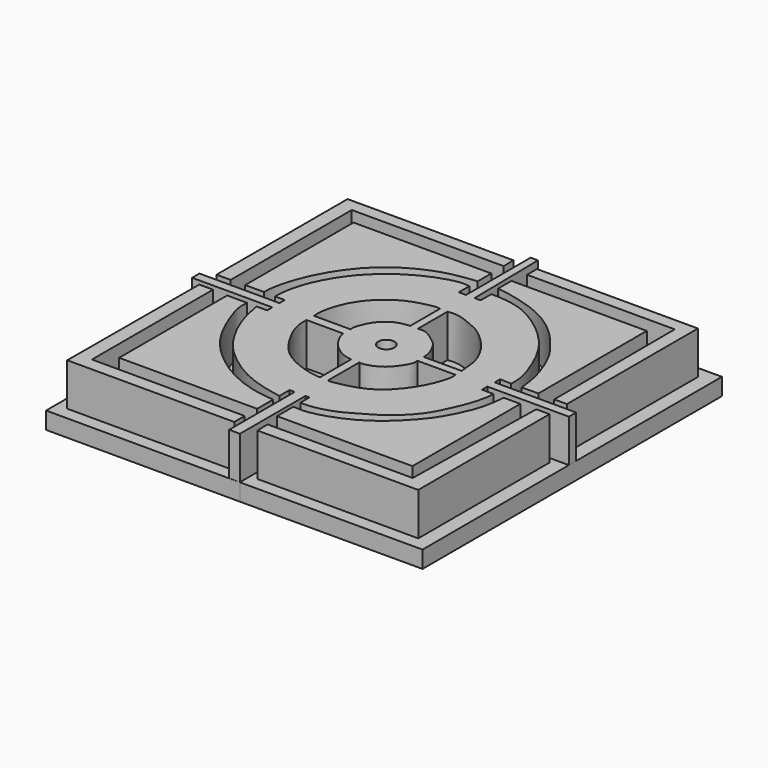
from build123d import *

# Parameters (mm, degrees)
F1_DEPTH = 5
F0_R     = 0.9585003227
F3_DEPTH = 2


with BuildPart() as f1:
    # F0 (on Top) → F1 (new body)
    with BuildSketch(Plane.XY):
        with BuildLine():
            add(Edge.make_bspline(
                [(16.4221860468, 62.1270276606), (15.8832675467, 62.1270276606), (15.3443490465, 62.1270276606), (14.8054305464, 62.1270276606)],
                knots=[0, 0, 0, 0, 1.6167555004, 1.6167555004, 1.6167555004, 1.6167555004], degree=3))
            add(Edge.make_bspline(
                [(14.8054305464, 62.1270276606), (14.7858333463, 55.7044409215), (14.7662361463, 49.2818541825), (14.7466389462, 42.8592674434)],
                knots=[0, 0, 0, 0, 19.2678499122, 19.2678499122, 19.2678499122, 19.2678499122], degree=3))
            add(Edge.make_bspline(
                [(14.7466389462, 42.8592674434), (21.2821072588, 42.8592674434), (27.7907808085, 42.8592674434), (34.3262491211, 42.8592674434)],
                knots=[0, 0, 0, 0, 19.5796101748, 19.5796101748, 19.5796101748, 19.5796101748], degree=3))
            add(Edge.make_bspline(
                [(34.3262491211, 42.8592674434), (34.3262491211, 43.3677670856), (34.3262491211, 43.8762667278), (34.3262491211, 44.3847663701)],
                knots=[0, 0, 0, 0, 1.5254989266, 1.5254989266, 1.5254989266, 1.5254989266], degree=3))
            add(Edge.make_bspline(
                [(34.3262491211, 44.3847663701), (28.3492965087, 44.3847663701), (22.3991386592, 44.3847663701), (16.4221860468, 44.3847663701)],
                knots=[0, 0, 0, 0, 17.9040630742, 17.9040630742, 17.9040630742, 17.9040630742], degree=3))
            add(Edge.make_bspline(
                [(16.4221860468, 44.3847663701), (16.4221860468, 50.2988534669), (16.4221860468, 56.2129405638), (16.4221860468, 62.1270276606)],
                knots=[0, 0, 0, 0, 17.7422612906, 17.7422612906, 17.7422612906, 17.7422612906], degree=3))
        make_face()
    extrude(amount=-F1_DEPTH)


with BuildPart() as f1b:
    # F0 (on Top) → F1, piece 2 (new body)
    with BuildSketch(Plane.XY):
        with BuildLine():
            add(Edge.make_bspline(
                [(54.01673913, 44.3847663701), (48.3487062156, 44.3847663701), (42.6806733012, 44.3847663701), (37.0126403868, 44.3847663701)],
                knots=[0, 0, 0, 0, 17.0040987432, 17.0040987432, 17.0040987432, 17.0040987432], degree=3))
            add(Edge.make_bspline(
                [(37.0126403868, 44.3847663701), (37.0219697555, 43.8762667278), (37.0312991242, 43.3677670856), (37.0406284928, 42.8592674434)],
                knots=[0, 0, 0, 0, 1.5257556519, 1.5257556519, 1.5257556519, 1.5257556519], degree=3))
            add(Edge.make_bspline(
                [(37.0406284928, 42.8592674434), (43.3241464198, 42.8592674434), (49.6076643467, 42.8592674434), (55.8911822736, 42.8592674434)],
                knots=[0, 0, 0, 0, 18.8505537808, 18.8505537808, 18.8505537808, 18.8505537808], degree=3))
            add(Edge.make_bspline(
                [(55.8911822736, 42.8592674434), (55.8911822736, 49.2690689862), (55.8911822736, 55.6788705289), (55.8911822736, 62.0886720717)],
                knots=[0, 0, 0, 0, 19.2294046283, 19.2294046283, 19.2294046283, 19.2294046283], degree=3))
            add(Edge.make_bspline(
                [(55.8911822736, 62.0886720717), (55.3724678854, 62.0886720717), (54.8537534972, 62.0886720717), (54.335039109, 62.0886720717)],
                knots=[0, 0, 0, 0, 1.5561431646, 1.5561431646, 1.5561431646, 1.5561431646], degree=3))
            add(Edge.make_bspline(
                [(54.335039109, 62.0886720717), (54.228939116, 56.1873701711), (54.122839123, 50.2860682706), (54.01673913, 44.3847663701)],
                knots=[0, 0, 0, 0, 17.7067668412, 17.7067668412, 17.7067668412, 17.7067668412], degree=3))
        make_face()
    extrude(amount=-F1_DEPTH)


with BuildPart() as f1c:
    # F0 (on Top) → F1, piece 3 (new body)
    with BuildSketch(Plane.XY):
        with BuildLine():
            add(Edge.make_bspline(
                [(54.335039109, 82.3838636279), (54.3570650948, 76.470060481), (54.3790910807, 70.556257334), (54.4011170665, 64.6424541871)],
                knots=[0, 0, 0, 0, 17.7415324942, 17.7415324942, 17.7415324942, 17.7415324942], degree=3))
            add(Edge.make_bspline(
                [(54.4011170665, 64.6424541871), (54.8964854744, 64.6476306849), (55.3918538822, 64.6528071827), (55.88722229, 64.6579836805)],
                knots=[0, 0, 0, 0, 1.4861863613, 1.4861863613, 1.4861863613, 1.4861863613], degree=3))
            add(Edge.make_bspline(
                [(55.88722229, 64.6579836805), (55.88722229, 71.0520827108), (55.88722229, 77.446181741), (55.88722229, 83.8402807713)],
                knots=[0, 0, 0, 0, 19.1822970907, 19.1822970907, 19.1822970907, 19.1822970907], degree=3))
            add(Edge.make_bspline(
                [(55.88722229, 83.8402807713), (49.5988047785, 83.8402807713), (43.310387267, 83.8402807713), (37.0219697555, 83.8402807713)],
                knots=[0, 0, 0, 0, 18.8652525345, 18.8652525345, 18.8652525345, 18.8652525345], degree=3))
            add(Edge.make_bspline(
                [(37.0219697555, 83.8402807713), (37.0219697555, 83.3548083901), (37.0219697555, 82.869336009), (37.0219697555, 82.3838636279)],
                knots=[0, 0, 0, 0, 1.4564171433, 1.4564171433, 1.4564171433, 1.4564171433], degree=3))
            add(Edge.make_bspline(
                [(37.0219697555, 82.3838636279), (42.7929928733, 82.3838636279), (48.5640159912, 82.3838636279), (54.335039109, 82.3838636279)],
                knots=[0, 0, 0, 0, 17.3130693535, 17.3130693535, 17.3130693535, 17.3130693535], degree=3))
        make_face()
    extrude(amount=-F1_DEPTH)


with BuildPart() as f1d:
    # F0 (on Top) → F1, piece 4 (new body)
    with BuildSketch(Plane.XY):
        with BuildLine():
            add(Edge.make_bspline(
                [(16.4753869176, 82.3838636279), (22.4143899977, 82.3838636279), (28.3533930779, 82.3838636279), (34.292396158, 82.3838636279)],
                knots=[0, 0, 0, 0, 17.8170092404, 17.8170092404, 17.8170092404, 17.8170092404], degree=3))
            add(Edge.make_bspline(
                [(34.292396158, 82.3838636279), (34.2783766488, 82.869336009), (34.2643571397, 83.3548083901), (34.2503376305, 83.8402807713)],
                knots=[0, 0, 0, 0, 1.4570243015, 1.4570243015, 1.4570243015, 1.4570243015], degree=3))
            add(Edge.make_bspline(
                [(34.2503376305, 83.8402807713), (27.7733197436, 83.8402807713), (21.2963018566, 83.8402807713), (14.8192839697, 83.8402807713)],
                knots=[0, 0, 0, 0, 19.4310536608, 19.4310536608, 19.4310536608, 19.4310536608], degree=3))
            add(Edge.make_bspline(
                [(14.8192839697, 83.8402807713), (14.8192839697, 77.4410052432), (14.8192839697, 71.0417297151), (14.8192839697, 64.6424541871)],
                knots=[0, 0, 0, 0, 19.1978265842, 19.1978265842, 19.1978265842, 19.1978265842], degree=3))
            add(Edge.make_bspline(
                [(14.8192839697, 64.6424541871), (15.3713182857, 64.6424541871), (15.9233526016, 64.6424541871), (16.4753869176, 64.6424541871)],
                knots=[0, 0, 0, 0, 1.6561029479, 1.6561029479, 1.6561029479, 1.6561029479], degree=3))
            add(Edge.make_bspline(
                [(16.4753869176, 64.6424541871), (16.4753869176, 70.556257334), (16.4753869176, 76.470060481), (16.4753869176, 82.3838636279)],
                knots=[0, 0, 0, 0, 17.7414094408, 17.7414094408, 17.7414094408, 17.7414094408], degree=3))
        make_face()
    extrude(amount=-F1_DEPTH)


with BuildPart() as f1e:
    # F0 (on Top) → F1, piece 5 (new body)
    with BuildSketch(Plane.XY):
        with BuildLine():
            add(Edge.make_bspline(
                [(34.3262491211, 48.5477223992), (34.3262491211, 47.7673628798), (34.3262491211, 46.9870033603), (34.3262491211, 46.2066438408)],
                knots=[2.4108831199, 2.4108831199, 2.4108831199, 2.4108831199, 4.7519616783, 4.7519616783, 4.7519616783, 4.7519616783], degree=3))
            add(Edge.make_bspline(
                [(20.4879599351, 62.0290902522), (20.469326627, 61.66728065), (20.4285012687, 60.8745600789), (20.8482317602, 59.3461325355), (22.256334925, 55.836630838), (24.3118460333, 53.1670467444), (26.7548642366, 51.1628554319), (28.9198826976, 49.8626542877), (31.7586852786, 48.7999758788), (33.4911071233, 48.6297719558), (34.3262491211, 48.5477223992)],
                knots=[0, 0, 0, 0, 0.0818720069, 0.1793806016, 0.3309250974, 0.4772051079, 0.614397108, 0.7392468588, 0.8742997267, 1, 1, 1, 1], degree=3))
            add(Edge.make_bspline(
                [(20.4879599351, 62.0290902522), (19.6947968911, 62.0290902522), (18.9461487655, 62.0290902522), (18.1529857215, 62.0290902522)],
                knots=[0, 0, 0, 0, 2.3349742136, 2.3349742136, 2.3349742136, 2.3349742136], degree=3))
            add(Edge.make_bspline(
                [(18.1529857215, 62.0290902522), (18.1529857215, 56.7574902045), (18.1529857215, 51.4782438884), (18.1529857215, 46.2066438408)],
                knots=[0, 0, 0, 0, 15.8224464113, 15.8224464113, 15.8224464113, 15.8224464113], degree=3))
            add(Edge.make_bspline(
                [(18.1529857215, 46.2066438408), (23.553005109, 46.2066438408), (28.9262297336, 46.2066438408), (34.3262491211, 46.2066438408)],
                knots=[0, 0, 0, 0, 16.1732633996, 16.1732633996, 16.1732633996, 16.1732633996], degree=3))
        make_face()
    extrude(amount=-F1_DEPTH)


with BuildPart() as f1f:
    # F0 (on Top) → F1, piece 6 (new body)
    with BuildSketch(Plane.XY):
        with BuildLine():
            add(Edge.make_bspline(
                [(34.925326705, 50.9586055191), (35.3469848633, 50.9586055191), (35.7686430216, 50.9586055191), (36.1903011799, 50.9586055191)],
                knots=[0.5990775839, 0.5990775839, 0.5990775839, 0.5990775839, 1.8640520588, 1.8640520588, 1.8640520588, 1.8640520588], degree=3))
            add(Edge.make_bspline(
                [(34.925326705, 41.3687191904), (34.925326705, 44.5656850934), (34.925326705, 47.7616396161), (34.925326705, 50.9586055191)],
                knots=[0, 0, 0, 0, 9.5898863287, 9.5898863287, 9.5898863287, 9.5898863287], degree=3))
            add(Edge.make_bspline(
                [(34.925326705, 41.3687191904), (35.3317720195, 41.3588061929), (35.7838558654, 41.3488931954), (36.1903011799, 41.3389801979)],
                knots=[0, 0, 0, 0, 1.2653240019, 1.2653240019, 1.2653240019, 1.2653240019], degree=3))
            add(Edge.make_bspline(
                [(36.1903011799, 41.3389801979), (36.1903011799, 44.5458590984), (36.1903011799, 47.7517266186), (36.1903011799, 50.9586055191)],
                knots=[0, 0, 0, 0, 9.6196253212, 9.6196253212, 9.6196253212, 9.6196253212], degree=3))
        make_face()
        with BuildLine():
            add(Edge.make_bspline(
                [(22.8586476296, 62.7715587616), (19.72528516, 62.7715587616), (16.5919226905, 62.7715587616), (13.4585602209, 62.7715587616)],
                knots=[0, 0, 0, 0, 9.4000874087, 9.4000874087, 9.4000874087, 9.4000874087], degree=3))
            add(Edge.make_bspline(
                [(22.8376183659, 63.8440474868), (22.8446281205, 63.4865512451), (22.851637875, 63.1290550033), (22.8586476296, 62.7715587616)],
                knots=[0, 0, 0, 0, 1.0726948753, 1.0726948753, 1.0726948753, 1.0726948753], degree=3))
            add(Edge.make_bspline(
                [(13.4585602209, 63.8440474868), (16.5849129359, 63.8440474868), (19.7112656509, 63.8440474868), (22.8376183659, 63.8440474868)],
                knots=[0, 0, 0, 0, 9.379058145, 9.379058145, 9.379058145, 9.379058145], degree=3))
            add(Edge.make_bspline(
                [(13.4585602209, 62.7715587616), (13.4585602209, 63.1290550033), (13.4585602209, 63.4865512451), (13.4585602209, 63.8440474868)],
                knots=[0, 0, 0, 0, 1.0724887252, 1.0724887252, 1.0724887252, 1.0724887252], degree=3))
        make_face()
        with BuildLine():
            add(Edge.make_bspline(
                [(35.1613126695, 85.2358043194), (35.1614827911, 82.0812707146), (35.1616529127, 78.9267371098), (35.1618230343, 75.772203505)],
                knots=[0, 0, 0, 0, 9.4636008281, 9.4636008281, 9.4636008281, 9.4636008281], degree=3))
            add(Edge.make_bspline(
                [(36.1621901393, 75.772203505), (35.8287344376, 75.772203505), (35.495278736, 75.772203505), (35.1618230343, 75.772203505)],
                knots=[0.7074847817, 0.7074847817, 0.7074847817, 0.7074847817, 1.7078518867, 1.7078518867, 1.7078518867, 1.7078518867], degree=3))
            add(Edge.make_bspline(
                [(36.1621901393, 75.772203505), (36.1133764187, 78.9267371098), (36.0645626982, 82.0812707146), (36.0157489777, 85.2358043194)],
                knots=[0, 0, 0, 0, 9.4647337726, 9.4647337726, 9.4647337726, 9.4647337726], degree=3))
            add(Edge.make_bspline(
                [(36.0157489777, 85.2358043194), (35.7309368749, 85.2358043194), (35.4461247722, 85.2358043194), (35.1613126695, 85.2358043194)],
                knots=[0, 0, 0, 0, 0.8544363081, 0.8544363081, 0.8544363081, 0.8544363081], degree=3))
        make_face()
        with BuildLine():
            add(Edge.make_bspline(
                [(48.0358153582, 62.8075450659), (48.0358153582, 63.1565873665), (48.0358153582, 63.5197117493), (48.0358153582, 63.8690404594)],
                knots=[0.8139980546, 0.8139980546, 0.8139980546, 0.8139980546, 1.8351889303, 1.8351889303, 1.8351889303, 1.8351889303], degree=3))
            add(Edge.make_bspline(
                [(57.5837679207, 62.8075450659), (54.4011170665, 62.8075450659), (51.2184662124, 62.8075450659), (48.0358153582, 62.8075450659)],
                knots=[0, 0, 0, 0, 9.5479525626, 9.5479525626, 9.5479525626, 9.5479525626], degree=3))
            add(Edge.make_bspline(
                [(57.5837679207, 63.8690404594), (57.5837679207, 63.5152086615), (57.5837679207, 63.1613768637), (57.5837679207, 62.8075450659)],
                knots=[0, 0, 0, 0, 1.0614953935, 1.0614953935, 1.0614953935, 1.0614953935], degree=3))
            add(Edge.make_bspline(
                [(48.0358153582, 63.8690404594), (51.2184662124, 63.8690404594), (54.4011170665, 63.8690404594), (57.5837679207, 63.8690404594)],
                knots=[0, 0, 0, 0, 9.5479525626, 9.5479525626, 9.5479525626, 9.5479525626], degree=3))
        make_face()
        with BuildLine():
            add(Edge.make_bspline(
                [(34.3262491211, 50.9586055191), (34.3262491211, 50.459558789), (34.3262491211, 49.960512059), (34.3262491211, 49.4614653289)],
                knots=[0, 0, 0, 0, 1.4971401902, 1.4971401902, 1.4971401902, 1.4971401902], degree=3))
            add(Edge.make_bspline(
                [(34.3262491211, 50.9586055191), (34.525941649, 50.9586055191), (34.725634177, 50.9586055191), (34.925326705, 50.9586055191)],
                knots=[0, 0, 0, 0, 0.5990775839, 0.5990775839, 0.5990775839, 0.5990775839], degree=3))
            add(Edge.make_bspline(
                [(34.925326705, 50.9586055191), (35.3469848633, 50.9586055191), (35.7686430216, 50.9586055191), (36.1903011799, 50.9586055191)],
                knots=[0.5990775839, 0.5990775839, 0.5990775839, 0.5990775839, 1.8640520588, 1.8640520588, 1.8640520588, 1.8640520588], degree=3))
            add(Edge.make_bspline(
                [(36.1903011799, 50.9586055191), (36.3484438951, 50.9586055191), (36.5065866102, 50.9586055191), (36.6647293254, 50.9586055191)],
                knots=[1.8640520588, 1.8640520588, 1.8640520588, 1.8640520588, 2.3384802043, 2.3384802043, 2.3384802043, 2.3384802043], degree=3))
            add(Edge.make_bspline(
                [(36.6647293254, 50.9586055191), (36.6647293254, 50.5102587482), (36.6647293254, 50.0619119774), (36.6647293254, 49.6135652065)],
                knots=[0, 0, 0, 0, 1.3450403126, 1.3450403126, 1.3450403126, 1.3450403126], degree=3))
            add(Edge.make_bspline(
                [(49.3640676141, 62.0138347149), (49.3773822056, 61.814017967), (49.4091497111, 61.4383885155), (48.9438100815, 59.271947412), (47.9324026139, 57.0865536852), (47.0309666777, 55.1649379727), (44.7427529489, 52.645989334), (41.9050778485, 51.1477204747), (40.6481850607, 50.3668195918), (38.3649020674, 49.6116054769), (37.2028230824, 49.6135528129), (36.6647293254, 49.6135652065)],
                knots=[0, 0, 0, 0, 0.0578383768, 0.1703165687, 0.2926937648, 0.404948092, 0.5480098965, 0.6856074121, 0.781050117, 0.8986984495, 1, 1, 1, 1], degree=3))
            add(Edge.make_bspline(
                [(49.3640676141, 62.0138347149), (48.9213168621, 62.0138347149), (48.4785661101, 62.0138347149), (48.0358153582, 62.0138347149)],
                knots=[0, 0, 0, 0, 1.3282522559, 1.3282522559, 1.3282522559, 1.3282522559], degree=3))
            add(Edge.make_bspline(
                [(48.0358153582, 62.0138347149), (48.0358153582, 62.2600446364), (48.0358153582, 62.5293211212), (48.0358153582, 62.8075450659)],
                knots=[0, 0, 0, 0, 0.8139980546, 0.8139980546, 0.8139980546, 0.8139980546], degree=3))
            add(Edge.make_bspline(
                [(48.0358153582, 62.8075450659), (48.0358153582, 63.1565873665), (48.0358153582, 63.5197117493), (48.0358153582, 63.8690404594)],
                knots=[0.8139980546, 0.8139980546, 0.8139980546, 0.8139980546, 1.8351889303, 1.8351889303, 1.8351889303, 1.8351889303], degree=3))
            add(Edge.make_bspline(
                [(48.0358153582, 63.8690404594), (48.0358153582, 64.1510816237), (48.0358153582, 64.4241298972), (48.0358153582, 64.673513174)],
                knots=[1.8351889303, 1.8351889303, 1.8351889303, 1.8351889303, 2.6596784591, 2.6596784591, 2.6596784591, 2.6596784591], degree=3))
            add(Edge.make_bspline(
                [(48.0358153582, 64.673513174), (48.4824304779, 64.6579836806), (48.9290455977, 64.6424541871), (49.3756607175, 64.6269246936)],
                knots=[0, 0, 0, 0, 1.3406550911, 1.3406550911, 1.3406550911, 1.3406550911], degree=3))
            add(Edge.make_bspline(
                [(36.869674921, 77.3325264454), (37.0804886913, 77.3451733979), (37.6488734826, 77.350612493), (39.857399112, 77.1542788889), (42.0612404884, 76.2032987688), (44.3444346233, 74.6008118443), (46.336657962, 72.6531262304), (47.7950787284, 70.3663611306), (48.7349733481, 68.1317289371), (49.4042837293, 66.0976157093), (49.3845737131, 65.084903481), (49.3756607175, 64.6269246936)],
                knots=[0, 0, 0, 0, 0.0654086489, 0.1773681339, 0.2974935373, 0.4246372311, 0.5524322165, 0.6778681778, 0.7977350761, 0.9086148136, 1, 1, 1, 1], degree=3))
            add(Edge.make_bspline(
                [(36.869674921, 77.3325264454), (36.869674921, 76.768271625), (36.869674921, 76.3364583254), (36.869674921, 75.772203505)],
                knots=[0, 0, 0, 0, 1.5603229403, 1.5603229403, 1.5603229403, 1.5603229403], degree=3))
            add(Edge.make_bspline(
                [(36.869674921, 75.772203505), (36.6338466605, 75.772203505), (36.3980183999, 75.772203505), (36.1621901393, 75.772203505)],
                knots=[0, 0, 0, 0, 0.7074847817, 0.7074847817, 0.7074847817, 0.7074847817], degree=3))
            add(Edge.make_bspline(
                [(36.1621901393, 75.772203505), (35.8287344376, 75.772203505), (35.495278736, 75.772203505), (35.1618230343, 75.772203505)],
                knots=[0.7074847817, 0.7074847817, 0.7074847817, 0.7074847817, 1.7078518867, 1.7078518867, 1.7078518867, 1.7078518867], degree=3))
            add(Edge.make_bspline(
                [(35.1618230343, 75.772203505), (34.8771810532, 75.772203505), (34.592539072, 75.772203505), (34.3078970909, 75.772203505)],
                knots=[1.7078518867, 1.7078518867, 1.7078518867, 1.7078518867, 2.5617778301, 2.5617778301, 2.5617778301, 2.5617778301], degree=3))
            add(Edge.make_bspline(
                [(34.3078970909, 75.772203505), (34.3078970909, 76.3364583254), (34.3078970909, 76.768271625), (34.3078970909, 77.3325264454)],
                knots=[0, 0, 0, 0, 1.5603229403, 1.5603229403, 1.5603229403, 1.5603229403], degree=3))
            add(Edge.make_bspline(
                [(34.3078970909, 77.3325264454), (33.8691194926, 77.382322327), (32.8361100051, 77.4689395129), (29.8155548786, 76.4208925059), (27.0907434314, 74.7925930891), (24.3723664588, 72.2446092205), (22.390718826, 68.7672813299), (21.7368975728, 66.1289348712), (21.7024073564, 65.0743365342), (21.6877348721, 64.6269246936)],
                knots=[0, 0, 0, 0, 0.1030970948, 0.2558297354, 0.4125735671, 0.5797448281, 0.7543120874, 0.896055567, 1, 1, 1, 1], degree=3))
            add(Edge.make_bspline(
                [(21.6877348721, 64.6269246936), (22.07102937, 64.6269246936), (22.454323868, 64.6269246936), (22.8376183659, 64.6269246936)],
                knots=[0, 0, 0, 0, 1.1498834938, 1.1498834938, 1.1498834938, 1.1498834938], degree=3))
            add(Edge.make_bspline(
                [(22.8376183659, 64.6269246936), (22.8376183659, 64.3659656247), (22.8376183659, 64.1050065557), (22.8376183659, 63.8440474868)],
                knots=[0, 0, 0, 0, 0.7828772068, 0.7828772068, 0.7828772068, 0.7828772068], degree=3))
            add(Edge.make_bspline(
                [(22.8376183659, 63.8440474868), (22.8446281205, 63.4865512451), (22.851637875, 63.1290550033), (22.8586476296, 62.7715587616)],
                knots=[0, 0, 0, 0, 1.0726948753, 1.0726948753, 1.0726948753, 1.0726948753], degree=3))
            add(Edge.make_bspline(
                [(22.8586476296, 62.7715587616), (22.8586476296, 62.5182241201), (22.8586476296, 62.2638780983), (22.8586476296, 62.0105434568)],
                knots=[0, 0, 0, 0, 0.7610153048, 0.7610153048, 0.7610153048, 0.7610153048], degree=3))
            add(Edge.make_bspline(
                [(22.8586476296, 62.0105434568), (22.4407364925, 62.0067709795), (22.0190702627, 62.0035008976), (21.6011591256, 61.9997284202)],
                knots=[0, 0, 0, 0, 1.2575350106, 1.2575350106, 1.2575350106, 1.2575350106], degree=3))
            add(Edge.make_bspline(
                [(34.3262491211, 49.4614653289), (33.9344259451, 49.5288718558), (33.0847133309, 49.6830987217), (30.9001349791, 50.2401010262), (28.7033992921, 51.2397164874), (26.7016619372, 52.638600452), (24.7154537292, 54.4489596313), (23.2796714182, 56.7950605477), (22.6355841384, 58.20541296), (22.0311295687, 59.8271132382), (21.6139248737, 61.9656952384), (21.6011591256, 61.9997284202)],
                knots=[0, 0, 0, 0, 0.0842967843, 0.1974396023, 0.3162116352, 0.434205334, 0.5597015038, 0.6845818035, 0.7771346478, 0.8848198284, 0.9909857944, 0.9909857944, 0.9909857944, 0.9909857944], degree=3))
        make_face()
        with BuildLine():
            add(Edge.make_bspline(
                [(34.925326705, 52.603892982), (35.2390151885, 52.603892982), (35.5715474405, 52.603892982), (35.885235924, 52.603892982)],
                knots=[0, 0, 0, 0, 0.959909219, 0.959909219, 0.959909219, 0.959909219], degree=3))
            add(Edge.make_bspline(
                [(34.925326705, 52.603892982), (34.925326705, 53.2904155552), (34.925326705, 53.9769381285), (34.925326705, 54.6634607017)],
                knots=[0, 0, 0, 0, 2.0595677197, 2.0595677197, 2.0595677197, 2.0595677197], degree=3))
            add(Edge.make_bspline(
                [(34.925326705, 54.6634607017), (34.5520501631, 54.6952935671), (33.7172065203, 54.7664886795), (31.9804002625, 55.3030674479), (30.0705290496, 56.2301092288), (28.5641292527, 57.8364280556), (27.3075207341, 60.1029494675), (27.0856800092, 60.9230534601), (26.8244947416, 61.967845736), (26.8571194319, 62.5144343762), (26.8724666288, 62.7715587616)],
                knots=[0, 0, 0, 0, 0.1107153253, 0.2476179858, 0.3950336198, 0.5489949429, 0.7104537414, 0.805516836, 0.9085118857, 1, 1, 1, 1], degree=3))
            add(Edge.make_bspline(
                [(26.8724666288, 62.7715587616), (26.1553043707, 62.7715587616), (25.4381421126, 62.7715587616), (24.7209798545, 62.7715587616)],
                knots=[4.3029735486, 4.3029735486, 4.3029735486, 4.3029735486, 6.4544603229, 6.4544603229, 6.4544603229, 6.4544603229], degree=3))
            add(Edge.make_bspline(
                [(24.7209798545, 62.7715587616), (24.7209798545, 63.1290550033), (24.7209798545, 63.4865512451), (24.7209798545, 63.8440474868)],
                knots=[0, 0, 0, 0, 1.0724887252, 1.0724887252, 1.0724887252, 1.0724887252], degree=3))
            add(Edge.make_bspline(
                [(24.7209798545, 63.8440474868), (25.4381421126, 63.8440474868), (26.1553043707, 63.8440474868), (26.8724666288, 63.8440474868)],
                knots=[0, 0, 0, 0, 2.1514867743, 2.1514867743, 2.1514867743, 2.1514867743], degree=3))
            add(Edge.make_bspline(
                [(26.8724666288, 63.8440474868), (26.8502700716, 64.1404986417), (26.7922520247, 64.9153718291), (27.4486997716, 67.5440683368), (29.147490191, 69.8667425581), (31.2582107241, 71.3703733951), (33.1044036124, 71.9525541956), (34.5497303016, 72.2525136498), (34.8855166224, 72.1679619697), (35.0043922663, 72.1380288402)],
                knots=[0, 0, 0, 0, 0.1094362577, 0.2860478714, 0.4730694586, 0.6465391907, 0.8003079697, 0.9293046881, 1, 1, 1, 1], degree=3))
            add(Edge.make_bspline(
                [(35.0043922663, 72.1380288402), (35.0043922663, 72.8434220403), (35.0043922663, 73.5415014905), (35.0043922663, 74.2186307907)],
                knots=[4.3438428485, 4.3438428485, 4.3438428485, 4.3438428485, 6.4396038651, 6.4396038651, 6.4396038651, 6.4396038651], degree=3))
            add(Edge.make_bspline(
                [(35.0043922663, 74.2186307907), (35.3156489631, 74.2186307907), (35.59347863, 74.2186307907), (35.9047353268, 74.2186307907)],
                knots=[0, 0, 0, 0, 0.9003430605, 0.9003430605, 0.9003430605, 0.9003430605], degree=3))
            add(Edge.make_bspline(
                [(35.9047353268, 74.2186307907), (35.9047353268, 73.5250968072), (35.9047353268, 72.8315628237), (35.9047353268, 72.1380288402)],
                knots=[0, 0, 0, 0, 2.0806019505, 2.0806019505, 2.0806019505, 2.0806019505], degree=3))
            add(Edge.make_bspline(
                [(35.9047353268, 72.1380288402), (36.3083677559, 72.1780247752), (37.1990886343, 72.2662863017), (38.9674673916, 71.5225472984), (40.3384382259, 70.949329421), (42.0188782779, 69.445126892), (43.1089767586, 68.0745167478), (44.0926668028, 66.124623602), (44.182180853, 64.3519191305), (44.2307719308, 63.9163800801), (44.2483052611, 63.7592226267)],
                knots=[0, 0, 0, 0, 0.1117805014, 0.2466730105, 0.3698386049, 0.5159191875, 0.6490104649, 0.7958635561, 0.9263405574, 1, 1, 1, 1], degree=3))
            add(Edge.make_bspline(
                [(44.2483052611, 63.7592226267), (44.9161032836, 63.7592226267), (45.583901306, 63.7592226267), (46.2516993284, 63.7592226267)],
                knots=[4.4204220176, 4.4204220176, 4.4204220176, 4.4204220176, 6.4238160849, 6.4238160849, 6.4238160849, 6.4238160849], degree=3))
            add(Edge.make_bspline(
                [(46.2516993284, 63.7592226267), (46.2516993284, 63.4419967731), (46.2516993284, 63.1247709195), (46.2516993284, 62.8075450659)],
                knots=[0, 0, 0, 0, 0.9516775608, 0.9516775608, 0.9516775608, 0.9516775608], degree=3))
            add(Edge.make_bspline(
                [(46.2516993284, 62.8075450659), (45.6037720044, 62.8075450659), (44.9558446805, 62.8075450659), (44.3079173565, 62.8075450659)],
                knots=[0, 0, 0, 0, 1.9437819719, 1.9437819719, 1.9437819719, 1.9437819719], degree=3))
            add(Edge.make_bspline(
                [(44.3079173565, 62.8075450659), (44.328349444, 62.5890636417), (44.3809390826, 62.026269298), (43.807905346, 60.226780141), (42.9511807492, 58.6122776254), (41.5543149677, 56.7614201456), (39.3589301048, 55.1802339939), (36.5229905825, 54.635930748), (36.017684726, 54.5841289326), (35.8823163466, 54.6613492488)],
                knots=[0, 0, 0, 0, 0.0935603705, 0.2407455732, 0.3904356665, 0.5534576512, 0.7361575178, 0.9185772492, 0.9992724377, 0.9992724377, 0.9992724377, 0.9992724377], degree=3))
            add(Edge.make_bspline(
                [(35.885235924, 52.603892982), (35.8831278746, 53.2640846123), (35.8823712899, 53.9547946943), (35.8823163547, 54.6613492559)],
                knots=[0, 0, 0, 0, 2.1233852855, 2.1233852855, 2.1233852855, 2.1233852855], degree=3))
        make_face(mode=Mode.SUBTRACT)
        with BuildLine():
            add(Edge.make_bspline(
                [(34.925326705, 52.603892982), (34.925326705, 53.2904155552), (34.925326705, 53.9769381285), (34.925326705, 54.6634607017)],
                knots=[0, 0, 0, 0, 2.0595677197, 2.0595677197, 2.0595677197, 2.0595677197], degree=3))
            add(Edge.make_bspline(
                [(34.925326705, 52.603892982), (35.2390151885, 52.603892982), (35.5715474405, 52.603892982), (35.885235924, 52.603892982)],
                knots=[0, 0, 0, 0, 0.959909219, 0.959909219, 0.959909219, 0.959909219], degree=3))
            add(Edge.make_bspline(
                [(35.885235924, 52.603892982), (35.8831278746, 53.2640846123), (35.8823712899, 53.9547946943), (35.8823163547, 54.6613492559)],
                knots=[0, 0, 0, 0, 2.1233852855, 2.1233852855, 2.1233852855, 2.1233852855], degree=3))
            add(Edge.make_bspline(
                [(35.8823163547, 54.6613492559), (35.8821999112, 56.158998596), (35.885235924, 57.727835945), (35.885235924, 59.2281147838)],
                knots=[2.1233852855, 2.1233852855, 2.1233852855, 2.1233852855, 6.6242218018, 6.6242218018, 6.6242218018, 6.6242218018], degree=3))
            add(Edge.make_bspline(
                [(39.8278832436, 62.8075450659), (39.8536837045, 62.6333190713), (39.9184705252, 62.1945925309), (39.2122234259, 61.0354365314), (38.2919228247, 59.826965509), (36.4835826465, 59.1206713976), (36.0349707855, 59.2003058287), (35.885235924, 59.2281147838)],
                knots=[0, 0, 0, 0, 0.1430627255, 0.3581374053, 0.6004084066, 0.8585197521, 1, 1, 1, 1], degree=3))
            add(Edge.make_bspline(
                [(44.3079173565, 62.8075450659), (42.8145726522, 62.8075450659), (41.3212279479, 62.8075450659), (39.8278832436, 62.8075450659)],
                knots=[1.9437819719, 1.9437819719, 1.9437819719, 1.9437819719, 6.4238160849, 6.4238160849, 6.4238160849, 6.4238160849], degree=3))
            add(Edge.make_bspline(
                [(46.2516993284, 62.8075450659), (45.6037720044, 62.8075450659), (44.9558446805, 62.8075450659), (44.3079173565, 62.8075450659)],
                knots=[0, 0, 0, 0, 1.9437819719, 1.9437819719, 1.9437819719, 1.9437819719], degree=3))
            add(Edge.make_bspline(
                [(46.2516993284, 63.7592226267), (46.2516993284, 63.4419967731), (46.2516993284, 63.1247709195), (46.2516993284, 62.8075450659)],
                knots=[0, 0, 0, 0, 0.9516775608, 0.9516775608, 0.9516775608, 0.9516775608], degree=3))
            add(Edge.make_bspline(
                [(44.2483052611, 63.7592226267), (44.9161032836, 63.7592226267), (45.583901306, 63.7592226267), (46.2516993284, 63.7592226267)],
                knots=[4.4204220176, 4.4204220176, 4.4204220176, 4.4204220176, 6.4238160849, 6.4238160849, 6.4238160849, 6.4238160849], degree=3))
            add(Edge.make_bspline(
                [(39.8278832436, 63.7592226267), (41.3013572494, 63.7592226267), (42.7748312553, 63.7592226267), (44.2483052611, 63.7592226267)],
                knots=[0, 0, 0, 0, 4.4204220176, 4.4204220176, 4.4204220176, 4.4204220176], degree=3))
            add(Edge.make_bspline(
                [(35.9047353268, 67.7790269256), (36.1474305391, 67.7797719836), (36.7958162122, 67.9568886539), (38.082399637, 66.9583585695), (39.0023312078, 66.3127904417), (39.7544206639, 64.7005360058), (39.8059883065, 64.040791736), (39.8278832436, 63.7592226267)],
                knots=[0, 0, 0, 0, 0.1654637865, 0.3895332789, 0.5884914434, 0.8245108845, 1, 1, 1, 1], degree=3))
            add(Edge.make_bspline(
                [(35.9047353268, 72.1380288402), (35.9047353268, 70.685028202), (35.9047353268, 69.2320275638), (35.9047353268, 67.7790269256)],
                knots=[2.0806019505, 2.0806019505, 2.0806019505, 2.0806019505, 6.4396038651, 6.4396038651, 6.4396038651, 6.4396038651], degree=3))
            add(Edge.make_bspline(
                [(35.9047353268, 74.2186307907), (35.9047353268, 73.5250968072), (35.9047353268, 72.8315628237), (35.9047353268, 72.1380288402)],
                knots=[0, 0, 0, 0, 2.0806019505, 2.0806019505, 2.0806019505, 2.0806019505], degree=3))
            add(Edge.make_bspline(
                [(35.0043922663, 74.2186307907), (35.3156489631, 74.2186307907), (35.59347863, 74.2186307907), (35.9047353268, 74.2186307907)],
                knots=[0, 0, 0, 0, 0.9003430605, 0.9003430605, 0.9003430605, 0.9003430605], degree=3))
            add(Edge.make_bspline(
                [(35.0043922663, 72.1380288402), (35.0043922663, 72.8434220403), (35.0043922663, 73.5415014905), (35.0043922663, 74.2186307907)],
                knots=[4.3438428485, 4.3438428485, 4.3438428485, 4.3438428485, 6.4396038651, 6.4396038651, 6.4396038651, 6.4396038651], degree=3))
            add(Edge.make_bspline(
                [(35.0043922663, 67.7790269256), (35.0043922663, 69.1824995758), (35.0043922663, 70.6759741579), (35.0043922663, 72.1380288402)],
                knots=[0, 0, 0, 0, 4.3438428485, 4.3438428485, 4.3438428485, 4.3438428485], degree=3))
            add(Edge.make_bspline(
                [(31.1754401773, 63.8440474868), (31.1539248492, 64.0214682428), (31.1016335951, 64.4526749522), (31.5967512076, 65.6133203683), (32.0132808594, 66.3527385219), (33.1451102029, 67.5120068569), (34.6863893876, 67.7984141405), (34.9307684795, 67.783515439), (35.0043922663, 67.7790269256)],
                knots=[0, 0, 0, 0, 0.1316739625, 0.3200228506, 0.4816404555, 0.6988770928, 0.9092810741, 1, 1, 1, 1], degree=3))
            add(Edge.make_bspline(
                [(26.8724666288, 63.8440474868), (28.3067911449, 63.8440474868), (29.7411156611, 63.8440474868), (31.1754401773, 63.8440474868)],
                knots=[2.1514867743, 2.1514867743, 2.1514867743, 2.1514867743, 6.4544603229, 6.4544603229, 6.4544603229, 6.4544603229], degree=3))
            add(Edge.make_bspline(
                [(24.7209798545, 63.8440474868), (25.4381421126, 63.8440474868), (26.1553043707, 63.8440474868), (26.8724666288, 63.8440474868)],
                knots=[0, 0, 0, 0, 2.1514867743, 2.1514867743, 2.1514867743, 2.1514867743], degree=3))
            add(Edge.make_bspline(
                [(24.7209798545, 62.7715587616), (24.7209798545, 63.1290550033), (24.7209798545, 63.4865512451), (24.7209798545, 63.8440474868)],
                knots=[0, 0, 0, 0, 1.0724887252, 1.0724887252, 1.0724887252, 1.0724887252], degree=3))
            add(Edge.make_bspline(
                [(26.8724666288, 62.7715587616), (26.1553043707, 62.7715587616), (25.4381421126, 62.7715587616), (24.7209798545, 62.7715587616)],
                knots=[4.3029735486, 4.3029735486, 4.3029735486, 4.3029735486, 6.4544603229, 6.4544603229, 6.4544603229, 6.4544603229], degree=3))
            add(Edge.make_bspline(
                [(31.1754401773, 62.7715587616), (29.7411156611, 62.7715587616), (28.3067911449, 62.7715587616), (26.8724666288, 62.7715587616)],
                knots=[0, 0, 0, 0, 4.3029735486, 4.3029735486, 4.3029735486, 4.3029735486], degree=3))
            add(Edge.make_bspline(
                [(34.925326705, 59.2281147838), (34.6226004289, 59.2681864199), (34.0098931928, 59.3620435312), (32.9011140481, 59.9833426671), (31.9416022595, 60.9109639927), (31.2357520457, 62.216615373), (31.1921443667, 62.6193803649), (31.1754401773, 62.7715587616)],
                knots=[0, 0, 0, 0, 0.1846877379, 0.3988048457, 0.6276639153, 0.8599886764, 1, 1, 1, 1], degree=3))
            add(Edge.make_bspline(
                [(34.925326705, 54.6634607017), (34.925326705, 56.1850120624), (34.925326705, 57.7065634231), (34.925326705, 59.2281147838)],
                knots=[2.0595677197, 2.0595677197, 2.0595677197, 2.0595677197, 6.6242218018, 6.6242218018, 6.6242218018, 6.6242218018], degree=3))
        make_face()
        with Locations((35.6115102768, 63.5251104832)):
            Circle(F0_R, mode=Mode.SUBTRACT)
    extrude(amount=-F1_DEPTH)


with BuildPart() as f1g:
    # F0 (on Top) → F1, piece 7 (new body)
    with BuildSketch(Plane.XY):
        with BuildLine():
            add(Edge.make_bspline(
                [(36.6647293254, 48.5900547715), (37.1758728261, 48.5540505834), (38.3605367686, 48.4705409758), (41.2592017952, 49.3130837488), (44.6685121563, 51.0926894983), (47.6121885861, 54.2248488187), (48.8379969708, 56.1120388529), (50.2796591778, 59.1404387033), (50.4956884176, 61.0012297667), (50.5860532031, 62.0105434568)],
                knots=[0, 0, 0, 0, 0.1058273294, 0.2476725875, 0.4135645161, 0.5832226637, 0.7093056426, 0.8577652605, 0.9998455806, 0.9998455806, 0.9998455806, 0.9998455806], degree=3))
            add(Edge.make_bspline(
                [(36.6647293254, 48.5900547715), (36.6647293254, 47.7955844613), (36.6647293254, 47.001114151), (36.6647293254, 46.2066438408)],
                knots=[2.3685507476, 2.3685507476, 2.3685507476, 2.3685507476, 4.7519616783, 4.7519616783, 4.7519616783, 4.7519616783], degree=3))
            add(Edge.make_bspline(
                [(36.6647293254, 46.2066438408), (41.9505114441, 46.2066438408), (47.2448796724, 46.2066438408), (52.530661791, 46.2066438408)],
                knots=[0, 0, 0, 0, 15.8659324656, 15.8659324656, 15.8659324656, 15.8659324656], degree=3))
            add(Edge.make_bspline(
                [(52.530661791, 46.2066438408), (52.530661791, 51.4746103795), (52.530661791, 56.7425769182), (52.530661791, 62.0105434568)],
                knots=[0, 0, 0, 0, 15.803899616, 15.803899616, 15.803899616, 15.803899616], degree=3))
            add(Edge.make_bspline(
                [(52.530661791, 62.0105434568), (51.8768814433, 62.0096531905), (51.235938926, 62.0064264969), (50.5860532031, 62.0105434568)],
                knots=[0, 0, 0, 0, 1.9446085879, 1.9446085879, 1.9446085879, 1.9446085879], degree=3))
        make_face()
    extrude(amount=-F1_DEPTH)


with BuildPart() as f1h:
    # F0 (on Top) → F1, piece 8 (new body)
    with BuildSketch(Plane.XY):
        with BuildLine():
            add(Edge.make_bspline(
                [(50.586347787, 64.6269246936), (50.4902843865, 65.4274965576), (50.3599208327, 67.1057626927), (48.9639078696, 70.7124599907), (48.1054743858, 71.9302188038), (47.5525483489, 72.5759938359)],
                knots=[0, 0, 0, 0, 0.3131338762, 0.6947785119, 1, 1, 1, 1], degree=3))
            add(Edge.make_bspline(
                [(52.530661791, 64.673513174), (51.8854191596, 64.6579836805), (51.2315904185, 64.6424541871), (50.586347787, 64.6269246936)],
                knots=[0, 0, 0, 0, 1.9448720865, 1.9448720865, 1.9448720865, 1.9448720865], degree=3))
            add(Edge.make_bspline(
                [(52.530661791, 64.673513174), (52.530661791, 69.9629137913), (52.530661791, 75.2523144086), (52.530661791, 80.5417150259)],
                knots=[0, 0, 0, 0, 15.8682018518, 15.8682018518, 15.8682018518, 15.8682018518], degree=3))
            add(Edge.make_bspline(
                [(52.530661791, 80.5417150259), (47.2448796724, 80.5417150259), (41.9505114441, 80.5417150259), (36.6647293254, 80.5417150259)],
                knots=[0, 0, 0, 0, 15.8659324656, 15.8659324656, 15.8659324656, 15.8659324656], degree=3))
            add(Edge.make_bspline(
                [(36.6647293254, 80.5417150259), (36.6647293254, 79.8772449294), (36.6647293254, 79.212774833), (36.6647293254, 78.5483047366)],
                knots=[0, 0, 0, 0, 1.9934102893, 1.9934102893, 1.9934102893, 1.9934102893], degree=3))
            add(Edge.make_bspline(
                [(36.6647293254, 78.5483047366), (36.7241129363, 78.5483047366), (36.8102913102, 78.5483047366), (36.869674921, 78.5483047366)],
                knots=[0, 0, 0, 0, 0.2049455956, 0.2049455956, 0.2049455956, 0.2049455956], degree=3))
            add(Edge.make_bspline(
                [(47.5525483489, 72.5759938359), (47.2094456379, 73.0452450886), (46.3251874314, 74.2546184271), (42.8264679604, 77.3738653562), (37.7096081399, 78.4877127771), (37.0498966569, 78.5353037172), (36.869674921, 78.5483047366)],
                knots=[0, 0, 0, 0, 0.2081289099, 0.5363982582, 0.8733520443, 1, 1, 1, 1], degree=3))
        make_face()
    extrude(amount=-F1_DEPTH)


with BuildPart() as f1i:
    # F0 (on Top) → F1, piece 9 (new body)
    with BuildSketch(Plane.XY):
        with BuildLine():
            add(Edge.make_bspline(
                [(20.3758893793, 64.673513174), (20.361082674, 64.8867621856), (20.3251453414, 65.5485311624), (20.9459669611, 68.3899563783), (22.6616462733, 71.9773117462), (25.7168833882, 75.7093585738), (30.4989234722, 78.1408190427), (33.1097507297, 78.4201280734), (34.3078970909, 78.5483047366)],
                knots=[0.0055230612, 0.0055230612, 0.0055230612, 0.0055230612, 0.0812499649, 0.2333418136, 0.4167906579, 0.6159670421, 0.8237651507, 1, 1, 1, 1], degree=3))
            add(Edge.make_bspline(
                [(34.3078970909, 80.5417150259), (34.3078970909, 79.8772449294), (34.3078970909, 79.212774833), (34.3078970909, 78.5483047366)],
                knots=[0, 0, 0, 0, 1.9934102893, 1.9934102893, 1.9934102893, 1.9934102893], degree=3))
            add(Edge.make_bspline(
                [(34.3078970909, 80.5417150259), (28.9229266346, 80.5417150259), (23.5379561778, 80.5417150259), (18.1529857215, 80.5417150259)],
                knots=[0, 0, 0, 0, 16.1549113694, 16.1549113694, 16.1549113694, 16.1549113694], degree=3))
            add(Edge.make_bspline(
                [(18.1529857215, 80.5417150259), (18.1529857215, 75.2523144086), (18.1529857215, 69.9629137913), (18.1529857215, 64.673513174)],
                knots=[0, 0, 0, 0, 15.8682018518, 15.8682018518, 15.8682018518, 15.8682018518], degree=3))
            add(Edge.make_bspline(
                [(18.1529857215, 64.673513174), (18.8939536091, 64.673513174), (19.6349214917, 64.673513174), (20.3758893793, 64.673513174)],
                knots=[0, 0, 0, 0, 2.2229036578, 2.2229036578, 2.2229036578, 2.2229036578], degree=3))
        make_face()
    extrude(amount=-F1_DEPTH)


with BuildPart() as f3:
    # F2 (on face) → F3 (new body)
    with BuildSketch(Plane(origin=(0, 0, -5), x_dir=(1, 0, 0), z_dir=(0, 0, -1))):
        Polygon((57.5837679207, -41.3687191904), (36.1903011799, -41.3389801979), (13.4585602209, -41.3687191904), (13.4585602209, -85.2358043194), (57.5837679207, -85.2358043194), align=None)
    extrude(amount=F3_DEPTH)


solid = Compound([f1.part, f1b.part, f1c.part, f1d.part, f1e.part, f1f.part, f1g.part, f1h.part, f1i.part, f3.part])
